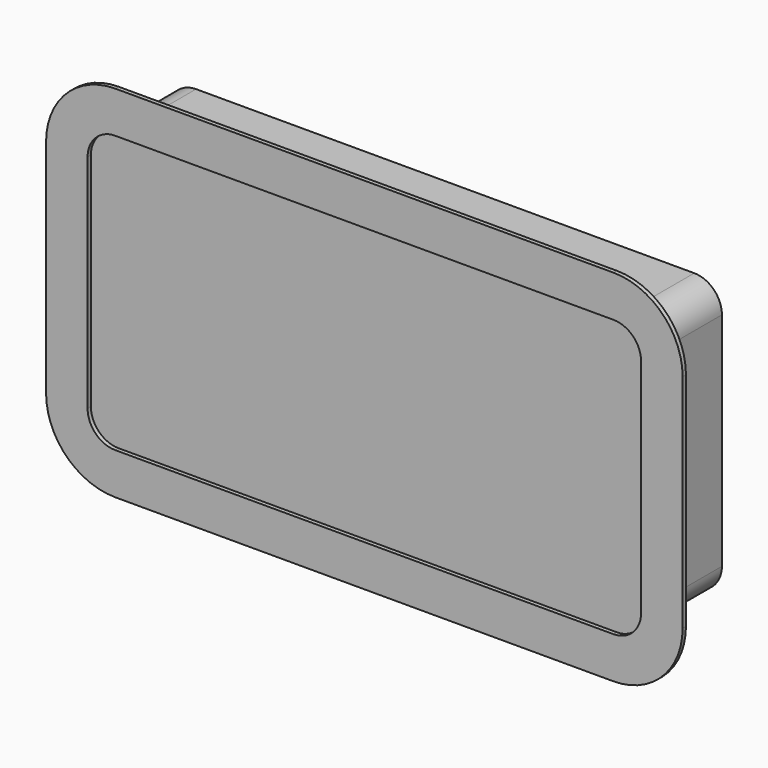
from build123d import *

# Parameters (mm, degrees)
F1_DEPTH = 30
F3_DEPTH = 700


with BuildPart() as f1:
    # F0 (on Front) → F1 (new body)
    with BuildSketch(Plane.XZ):
        with BuildLine():
            Line((1832.413676, -2670.416884), (-1767.586324, -2670.416884))
            ThreePointArc((-1767.586324, -2670.416884), (-2121.13968, -2816.86348), (-2267.586276, -3170.416836))
            Line((-2267.586276, -3170.416836), (-2267.586276, -4770.416836))
            ThreePointArc((-2267.586276, -4770.416836), (-2121.13968, -5123.970193), (-1767.586324, -5270.416789))
            Line((-1767.586324, -5270.416789), (1832.413676, -5270.416789))
            ThreePointArc((1832.413676, -5270.416789), (2185.967033, -5123.970193), (2332.413629, -4770.416836))
            Line((2332.413629, -4770.416836), (2332.413629, -3170.416836))
            ThreePointArc((2332.413629, -3170.416836), (2185.967033, -2816.86348), (1832.413676, -2670.416884))
        make_face()
        with BuildLine():
            Line((-1767.586324, -2970.416836), (1832.413676, -2970.416836))
            ThreePointArc((1832.413676, -2970.416836), (1973.835033, -3028.99548), (2032.413676, -3170.416836))
            Line((2032.413676, -3170.416836), (2032.413676, -4770.416836))
            ThreePointArc((2032.413676, -4770.416836), (1973.835033, -4911.838193), (1832.413676, -4970.416836))
            Line((1832.413676, -4970.416836), (-1767.586324, -4970.416836))
            ThreePointArc((-1767.586324, -4970.416836), (-1909.00768, -4911.838193), (-1967.586324, -4770.416836))
            Line((-1967.586324, -4770.416836), (-1967.586324, -3170.416836))
            ThreePointArc((-1967.586324, -3170.416836), (-1909.00768, -3028.99548), (-1767.586324, -2970.416836))
        make_face(mode=Mode.SUBTRACT)
    extrude(amount=F1_DEPTH)


with BuildPart() as f3:
    # F2 (on face) → F3 (new body)
    with BuildSketch(Plane(origin=(0, 0, 0), x_dir=(-1, 0, 0), z_dir=(0, 1, 0))):
        with BuildLine():
            ThreePointArc((1967.586324, -3170.416836), (1909.00768, -3028.99548), (1767.586324, -2970.416836))
            Line((1767.586324, -2970.416836), (-1832.413676, -2970.416836))
            ThreePointArc((-1832.413676, -2970.416836), (-1973.835033, -3028.99548), (-2032.413676, -3170.416836))
            Line((-2032.413676, -3170.416836), (-2032.413676, -4770.416836))
            ThreePointArc((-2032.413676, -4770.416836), (-1973.835033, -4911.838193), (-1832.413676, -4970.416836))
            Line((-1832.413676, -4970.416836), (1767.586324, -4970.416836))
            ThreePointArc((1767.586324, -4970.416836), (1909.00768, -4911.838193), (1967.586324, -4770.416836))
            Line((1967.586324, -4770.416836), (1967.586324, -3170.416836))
        make_face()
    extrude(amount=F3_DEPTH)


solid = Compound([f1.part, f3.part])
